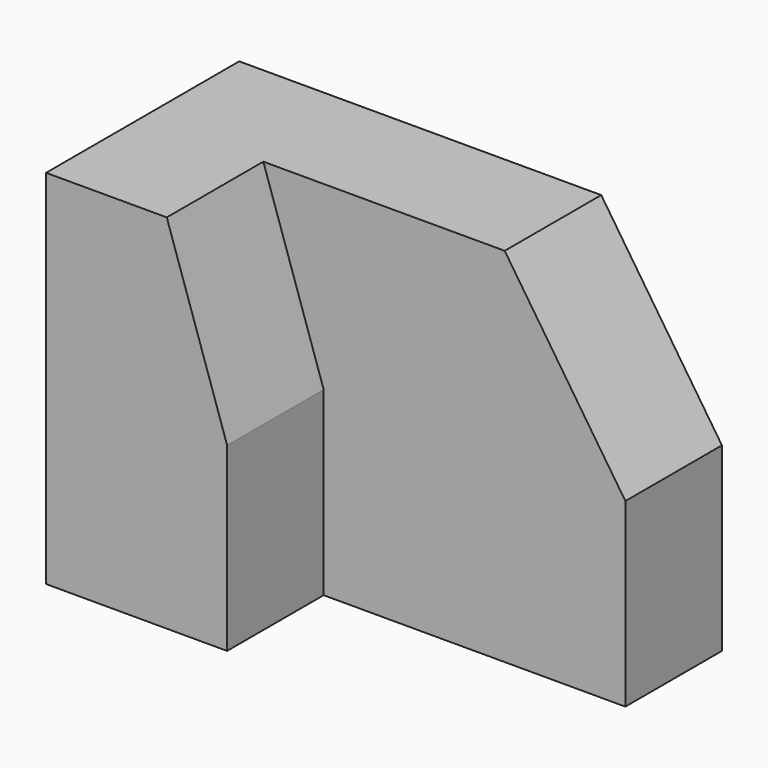
from build123d import *

# Parameters (mm, degrees)
F4_DEPTH = 19.05


with BuildPart() as f4:
    # F3 (on offset) → F4 (new body)
    with BuildSketch(Plane.XY.offset(-19.05)):
        Polygon((50.8, 0), (0, 0), (0, -25.4), (19.05, -25.4), (19.05, -12.7), (50.8, -12.7), align=None)
    extrude(amount=-F4_DEPTH)

    # F0 (on Top) → F5 section 0
    with BuildSketch(Plane.XY):
        Polygon((38.1, 0), (0, 0), (0, -25.4), (12.7, -25.4), (12.7, -12.7), (38.1, -12.7), align=None)
    # F4_face (on face) → F5 section 1
    with BuildSketch(Plane(origin=(21.070455, -9.813636, -19.05), x_dir=(1, 0, 0), z_dir=(0, 0, 1))):
        Polygon((29.729545, 9.813636), (-21.070455, 9.813636), (-21.070455, -15.586364), (-2.020455, -15.586364), (-2.020455, -2.886364), (29.729545, -2.886364), align=None)
    loft()


solid = f4.part
